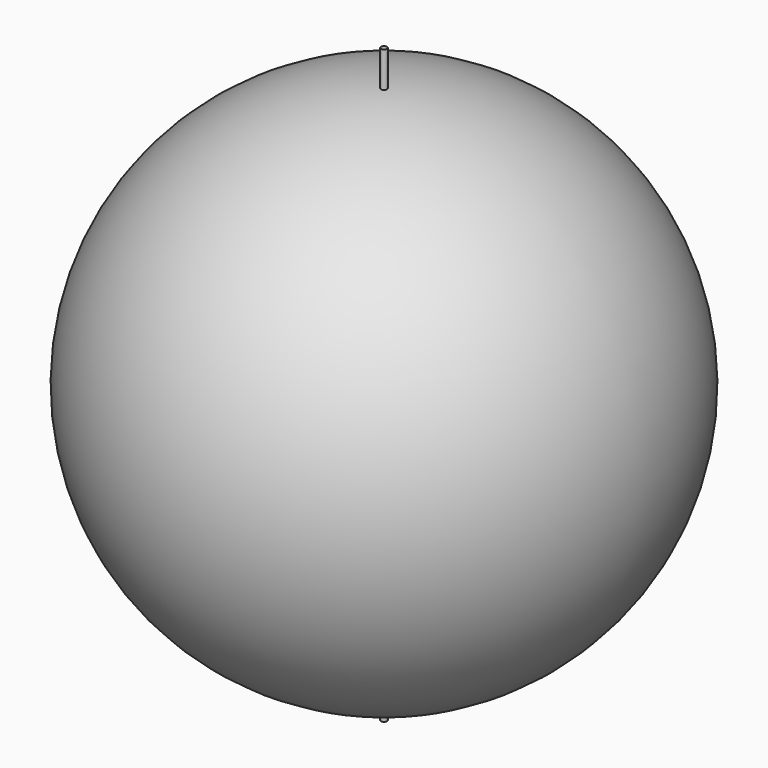
from build123d import *

# Parameters (mm, degrees)
F4_R     = 0.125
F5_DEPTH = 12.5


with BuildPart() as f1:
    # F0 (on Front) → F1 (revolve)
    with BuildSketch(Plane.XZ):
        with BuildLine():
            ThreePointArc((0, -11), (11, 0), (0, 11))
            Line((0, 11), (0, -11))
        make_face()
    revolve(axis=Axis((0, 0, 0.4714287959), (0, 0, -1)))


with BuildPart() as f3:
    # F2 (on Front) → F3 (revolve)
    with BuildSketch(Plane.XZ):
        with BuildLine():
            ThreePointArc((0, -3), (3, 0), (0, 3))
            Line((0, 3), (0, -3))
        make_face()
    revolve(axis=Axis((0, 0, 0.0618835911), (0, 0, -1)))


with BuildPart() as f5:
    # F4 (on Top) → F5 (new body, symmetric)
    with BuildSketch(Plane.XY):
        Circle(F4_R)
    extrude(amount=F5_DEPTH, both=True)


solid = Compound([f1.part, f3.part, f5.part])
